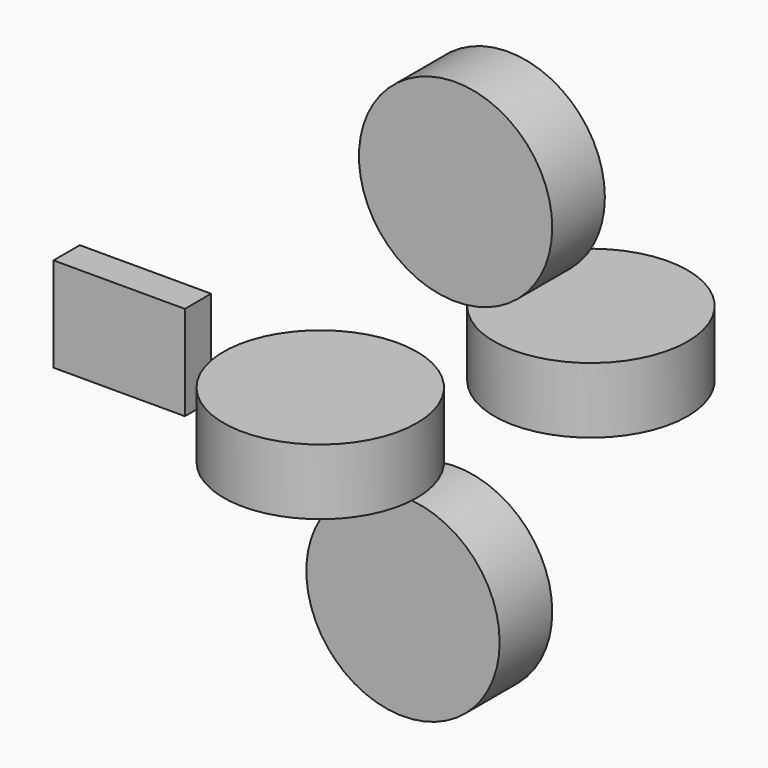
from build123d import *

# Parameters (mm, degrees)
F0_W     = 101.4821827412
F0_H     = 73.0260289274
F1_DEPTH = 25.4
F0_R     = 74.6695417206
F2_DEPTH = 25.4
F3_COUNT = 4


with BuildPart() as f1:
    # F0 (on Front) → F1 (new body)
    with BuildSketch(Plane.XZ):
        with Locations((-157.5373709202, 33.7689158041)):
            Rectangle(F0_W, F0_H)
    extrude(amount=F1_DEPTH)


with BuildPart() as f1b:
    # F0 (on Front) → F1, piece 2 (new body)
    with BuildSketch(Plane.XZ):
        with Locations((82.0340439677, -60.4088902473)):
            Circle(F0_R)
    extrude(amount=F1_DEPTH)

    # F2 (add): a face of the model
    f2_faces = [f1b.faces().sort_by_distance(p)[0] for p in [
        (82.0340439677, -25.4, -60.4088902473),
    ]]
    extrude(f2_faces, amount=F2_DEPTH)


with BuildPart() as f3_1:
    # F3: instance of F1b
    add(f1b.part.rotate(Axis((-157.5373709202, 0, 70.2819302678), (1, 0, 0)), 1 * 360 / F3_COUNT))


with BuildPart() as f3_2:
    # F3: instance of F1b
    add(f1b.part.rotate(Axis((-157.5373709202, 0, 70.2819302678), (1, 0, 0)), 2 * 360 / F3_COUNT))


with BuildPart() as f3_3:
    # F3: instance of F1b
    add(f1b.part.rotate(Axis((-157.5373709202, 0, 70.2819302678), (1, 0, 0)), 3 * 360 / F3_COUNT))


solid = Compound([f1.part, f1b.part, f3_1.part, f3_2.part, f3_3.part])
